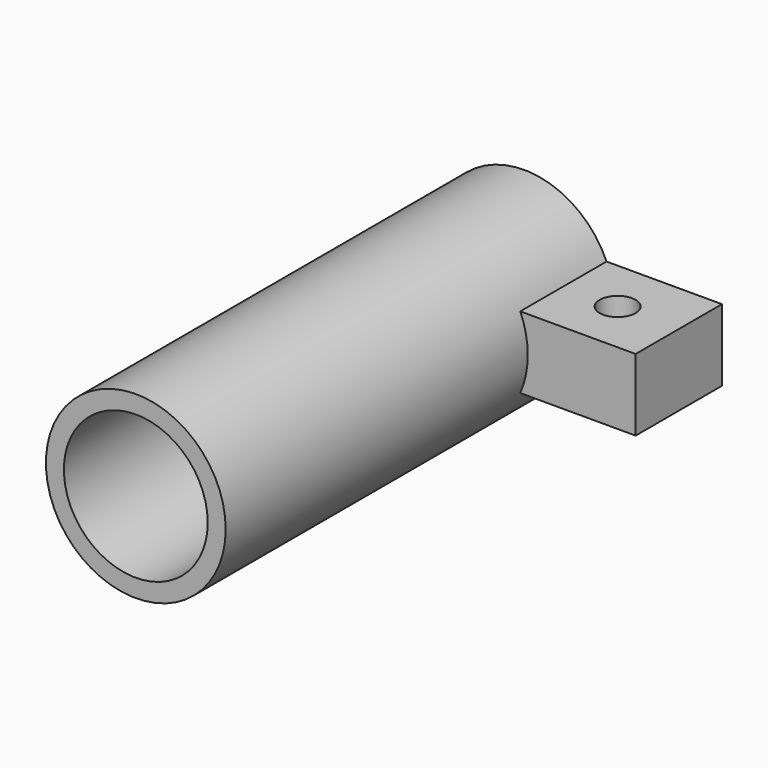
from build123d import *

# Parameters (mm, degrees)
F0_R     = 5
F1_DEPTH = 27
F2_R     = 4
F3_DEPTH = 25
F4_R     = 1.75
F5_DEPTH = 25
F7_DEPTH = 6
F8_R     = 1
F9_DEPTH = 25


with BuildPart() as f1:
    # F0 (on Front) → F1 (new body)
    with BuildSketch(Plane.XZ):
        Circle(F0_R)
    extrude(amount=F1_DEPTH)

    # F2 (on face) → F3 (cut)
    with BuildSketch(Plane.XZ.offset(27)):
        Circle(F2_R)
    extrude(amount=-F3_DEPTH, mode=Mode.SUBTRACT)

    # F4 (on face) → F5 (cut)
    with BuildSketch(Plane(origin=(0, 0, 0), x_dir=(-1, 0, 0), z_dir=(0, 1, 0))):
        Circle(F4_R)
    extrude(amount=-F5_DEPTH, mode=Mode.SUBTRACT)

    # F6 (on face) → F7 (join)
    with BuildSketch(Plane(origin=(0, 0, 0), x_dir=(-1, 0, 0), z_dir=(0, 1, 0))):
        with BuildLine():
            Line((-11, -2), (-4.582575695, -2))
            ThreePointArc((-4.582575695, -2), (-5, 0), (-4.582575695, 2))
            Line((-4.582575695, 2), (-11, 2))
            Line((-11, 2), (-11, -2))
        make_face()
    extrude(amount=-F7_DEPTH)

    # F8 (on face) → F9 (cut)
    with BuildSketch(Plane(origin=(0, 0, -2), x_dir=(1, 0, 0), z_dir=(0, 0, -1))):
        with Locations((7.6, 3)):
            Circle(F8_R)
    extrude(amount=-F9_DEPTH, mode=Mode.SUBTRACT)


solid = f1.part
